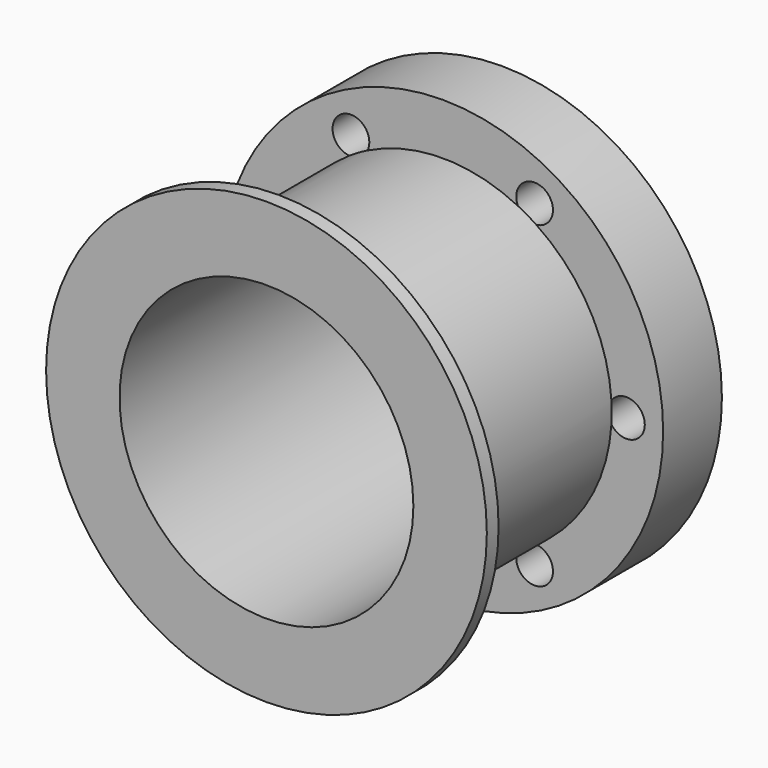
from build123d import *

# Parameters (mm, degrees)
F0_R     = 29.21
F0_R_2   = 25.4
F1_DEPTH = 50.8
F0_R_3   = 38.1
F2_DEPTH = 12.7
F3_R     = 3.175
F4_DEPTH = 12.7
F5_R     = 38.1
F5_R_2   = 25.4
F6_DEPTH = 2.54


with BuildPart() as f1:
    # F0 (on Front) → F1 (new body)
    with BuildSketch(Plane.XZ):
        Circle(F0_R)
        Circle(F0_R_2, mode=Mode.SUBTRACT)
    extrude(amount=F1_DEPTH)

    # F0 (on Front) → F2 (join)
    with BuildSketch(Plane.XZ):
        Circle(F0_R_3)
        Circle(F0_R, mode=Mode.SUBTRACT)
    extrude(amount=F2_DEPTH)

    # F3 (on face) → F4 (cut)
    with BuildSketch(Plane.XZ):
        with Locations((-31.75, 0)):
            Circle(F3_R)
        with Locations((-15.875, -27.496307)):
            Circle(F3_R)
        with Locations((15.875, -27.496307)):
            Circle(F3_R)
        with Locations((31.75, 0)):
            Circle(F3_R)
        with Locations((15.875, 27.496307)):
            Circle(F3_R)
        with Locations((-15.875, 27.496307)):
            Circle(F3_R)
    extrude(amount=F4_DEPTH, mode=Mode.SUBTRACT)

    # F5 (on face) → F6 (join)
    with BuildSketch(Plane.XZ.offset(50.8)):
        Circle(F5_R)
        Circle(F5_R_2, mode=Mode.SUBTRACT)
    extrude(amount=-F6_DEPTH)


solid = f1.part
